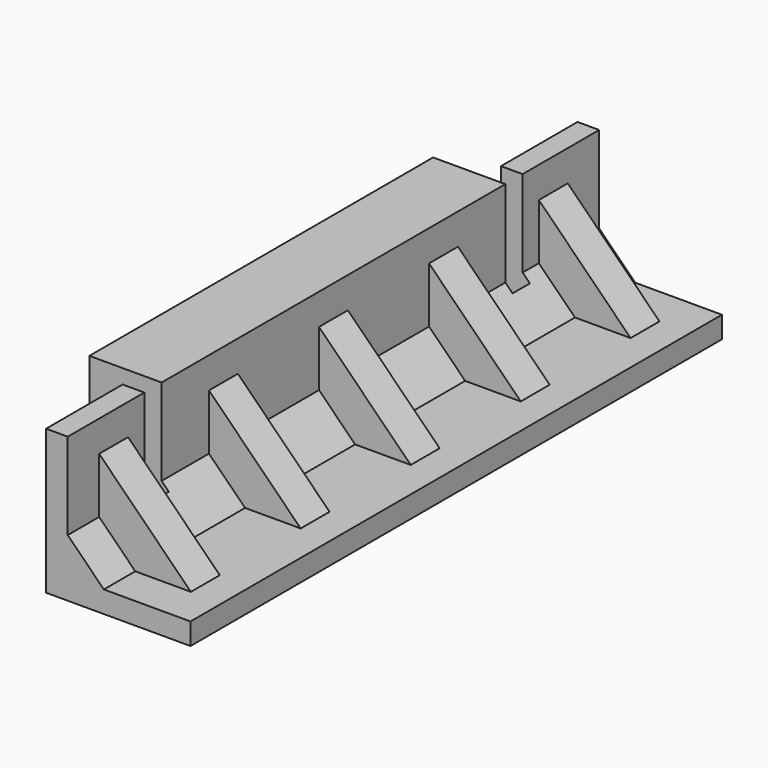
from build123d import *

# Parameters (mm, degrees)
F1_DEPTH  = 46
F2_SIZE   = 5
F6_DEPTH  = 2.5
F8_DEPTH  = 2.5
F10_DEPTH = 2.5
F11_W     = 4
F11_H     = 3
F12_DEPTH = 20.001
F15_DEPTH = 5
F18_DEPTH = 5
F19_W     = 59.5
F19_H     = 20
F20_DEPTH = 7


with BuildPart() as f1:
    # F0 (on Front) → F1 (new body, symmetric)
    with BuildSketch(Plane.XZ):
        Polygon((0, 20), (0, 0), (20, 0), (20, 3), (3, 3), (3, 20), align=None)
    extrude(amount=F1_DEPTH, both=True)

    # F2
    f2_edges = [f1.edges().sort_by_distance(p)[0] for p in [
        (3, 0, 3),
    ]]
    chamfer(f2_edges, length=F2_SIZE)

    # F5 (on Front) → F6 (join, symmetric)
    with BuildSketch(Plane.XZ):
        Polygon((15.7, 3), (3, 15.7), (3, 3), align=None)
    extrude(amount=F6_DEPTH, both=True)

    # F7 (on offset) → F8 (join, symmetric)
    with BuildSketch(Plane.XZ.offset(19.05)):
        Polygon((15.7, 3), (3, 15.7), (3, 3), align=None)
    extrude(amount=F8_DEPTH, both=True)

    # F9 (on offset) → F10 (join, symmetric)
    with BuildSketch(Plane.XZ.offset(-19.05)):
        Polygon((15.7, 3), (3, 15.7), (3, 3), align=None)
    extrude(amount=F10_DEPTH, both=True)

    # F11 (on face) → F12 (cut, through all)
    with BuildSketch(Plane.XY.offset(20)):
        with Locations((2, 31.25)):
            Rectangle(F11_W, F11_H)
        with Locations((2, -31.25)):
            Rectangle(F11_W, F11_H)
    extrude(amount=-F12_DEPTH, mode=Mode.SUBTRACT)

    # F14 (on offset) → F15 (join)
    with BuildSketch(Plane.XZ.offset(35.56)):
        Polygon((8, 3), (15.7, 3), (3, 15.7), (3, 8), align=None)
    extrude(amount=F15_DEPTH)

    # F17 (on offset) → F18 (join)
    with BuildSketch(Plane.XZ.offset(-35.56)):
        Polygon((15.7, 3), (3, 15.7), (3, 8), (8, 3), align=None)
    extrude(amount=-F18_DEPTH)

    # F19 (on face) → F20 (join)
    with BuildSketch(Plane(origin=(0, 0, 0), x_dir=(0, -1, 0), z_dir=(-1, 0, 0))):
        with Locations((0, 10)):
            Rectangle(F19_W, F19_H)
    extrude(amount=F20_DEPTH)


solid = f1.part
